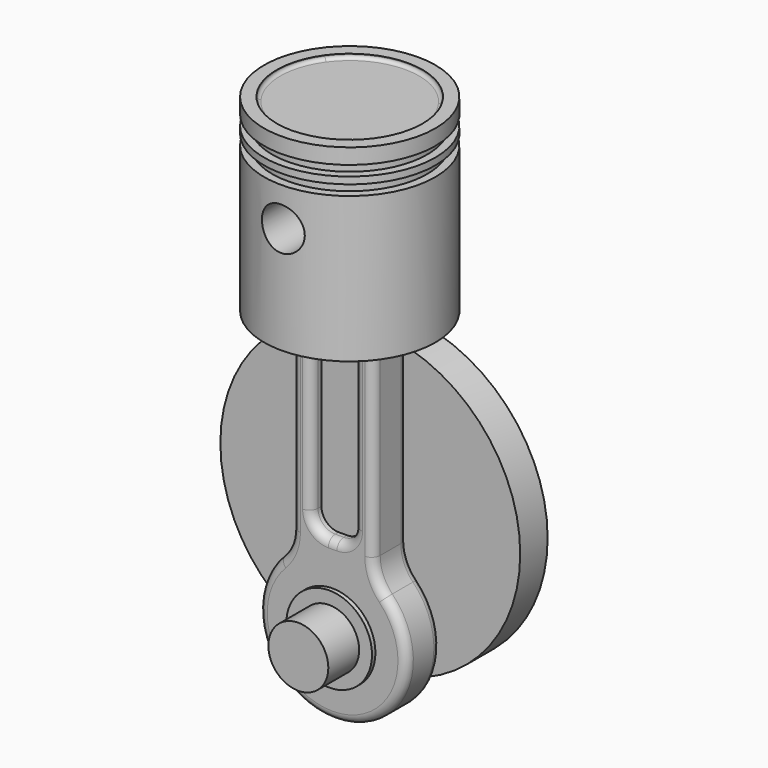
from build123d import *

# Parameters (mm, degrees)
F1_R      = 5
F1_W      = 5
F1_H      = 28
F1_R_2    = 2.5
F4_DEPTH  = 2.5
F5_DEPTH  = 1
F6_R      = 5
F7_R      = 2
F8_R      = 1
F9_START  = -3
F0_R      = 17.5
F0_R_2    = 3.5
F9_DEPTH  = 4
F10_DEPTH = 3
F11_R     = 3.5
F12_DEPTH = 7.5
F3_R      = 10
F13_DEPTH = 22
F14_DEPTH = 15
F15_DEPTH = 3
F0_R_3    = 2.5
F16_DEPTH = 11
F17_DEPTH = 0.5
F0_W      = 0.9503506497
F0_H      = 1.1954009533
F19_R     = 0.4


with BuildPart() as f4:
    # F1 (on Front) → F4 (new body, symmetric)
    with BuildSketch(Plane.XZ):
        with BuildLine():
            Line((-4.7557985918, 33), (-4.7557985918, -4.8015511501))
            ThreePointArc((-4.7557985918, -4.8015511501), (0, -20.6275886602), (4.7557985918, -4.8015511501))
            Line((4.7557985918, -4.8015511501), (4.7557985918, 33))
            ThreePointArc((4.7557985918, 33), (0, 37.7557985918), (-4.7557985918, 33))
        make_face()
        with Locations((0, -12)):
            Circle(F1_R, mode=Mode.SUBTRACT)
        with Locations((0, 12)):
            Rectangle(F1_W, F1_H, mode=Mode.SUBTRACT)
        with Locations((0, 33)):
            Circle(F1_R_2, mode=Mode.SUBTRACT)
    extrude(amount=F4_DEPTH, both=True)

    # F1 (on Front) → F5 (join, symmetric)
    with BuildSketch(Plane.XZ):
        with Locations((0, 12)):
            Rectangle(F1_W, F1_H)
    extrude(amount=F5_DEPTH, both=True)

    # F6
    f6_edges = [f4.edges().sort_by_distance(p)[0] for p in [
        (4.755799, 0, -4.801551),
        (-4.755799, 0, -4.801551),
    ]]
    fillet(f6_edges, radius=F6_R)

    # F7
    f7_edges = [f4.edges().sort_by_distance(p)[0] for p in [
        (2.5, -1.75, -2),
        (-2.5, -1.75, -2),
        (2.5, -1.75, 26),
        (-2.5, -1.75, 26),
        (-2.5, 1.75, 26),
        (2.5, 1.75, 26),
        (-2.5, 1.75, -2),
        (2.5, 1.75, -2),
    ]]
    fillet(f7_edges, radius=F7_R)

    # F8
    f8_edges = [f4.edges().sort_by_distance(p)[0] for p in [
        (4.755799, 2.5, 15.257509),
        (-4.755799, -2.5, 15.257509),
        (-1.914214, 2.5, 25.414214),
        (-2.5, -2.5, 12),
    ]]
    fillet(f8_edges, radius=F8_R)


with BuildPart() as f9:
    # F0 (on Front) → F9 (new body)
    with BuildSketch(Plane.XZ.offset(F9_START)):
        Circle(F0_R)
        with Locations((0, -12)):
            Circle(F0_R_2, mode=Mode.SUBTRACT)
    extrude(amount=-F9_DEPTH)


with BuildPart() as f10:
    # F1 (on Front) → F10 (new body, symmetric)
    with BuildSketch(Plane.XZ):
        with Locations((0, -12)):
            Circle(F1_R)
    extrude(amount=F10_DEPTH, both=True)

    # F11 (on Front) → F12 (join, symmetric)
    with BuildSketch(Plane.XZ):
        with Locations((0, -12)):
            Circle(F11_R)
    extrude(amount=F12_DEPTH, both=True)


with BuildPart() as f13:
    # F3 (on line) → F13 (new body)
    with BuildSketch(Plane.XY.offset(42.5)):
        Circle(F3_R)
        with BuildLine():
            ThreePointArc((6.8738635424, 5), (8.0832493501, 2.6288932927), (8.5, 0))
            ThreePointArc((8.5, 0), (8.0832493501, -2.6288932927), (6.8738635424, -5))
            ThreePointArc((6.8738635424, -5), (0, -8.5), (-6.8738635424, -5))
            ThreePointArc((-6.8738635424, -5), (-8.5, 0), (-6.8738635424, 5))
            ThreePointArc((-6.8738635424, 5), (0, 8.5), (6.8738635424, 5))
        make_face(mode=Mode.SUBTRACT)
    extrude(amount=-F13_DEPTH)

    # F3 (on line) → F14 (join)
    with BuildSketch(Plane.XY.offset(42.5)):
        with BuildLine():
            Line((-6.8738635424, 5), (6.8738635424, 5))
            ThreePointArc((6.8738635424, 5), (0, 8.5), (-6.8738635424, 5))
        make_face()
        with BuildLine():
            ThreePointArc((-6.8738635424, -5), (0, -8.5), (6.8738635424, -5))
            Line((6.8738635424, -5), (-6.8738635424, -5))
        make_face()
    extrude(amount=-F14_DEPTH)

    # F3 (on line) → F15 (join)
    with BuildSketch(Plane.XY.offset(42.5)):
        with BuildLine():
            ThreePointArc((6.8738635424, -5), (8.0832493501, -2.6288932927), (8.5, 0))
            ThreePointArc((8.5, 0), (8.0832493501, 2.6288932927), (6.8738635424, 5))
            Line((6.8738635424, 5), (-6.8738635424, 5))
            ThreePointArc((-6.8738635424, 5), (-8.5, 0), (-6.8738635424, -5))
            Line((-6.8738635424, -5), (6.8738635424, -5))
        make_face()
    extrude(amount=-F15_DEPTH)

    # F0 (on Front) → F16 (cut, symmetric)
    with BuildSketch(Plane.XZ):
        with Locations((0, 33)):
            Circle(F0_R_3)
    extrude(amount=F16_DEPTH, both=True, mode=Mode.SUBTRACT)

    # F3 (on line) → F17 (cut)
    with BuildSketch(Plane.XY.offset(42.5)):
        with BuildLine():
            ThreePointArc((-6.8738635424, -5), (0, -8.5), (6.8738635424, -5))
            Line((6.8738635424, -5), (-6.8738635424, -5))
        make_face()
        with BuildLine():
            ThreePointArc((6.8738635424, -5), (8.0832493501, -2.6288932927), (8.5, 0))
            ThreePointArc((8.5, 0), (8.0832493501, 2.6288932927), (6.8738635424, 5))
            Line((6.8738635424, 5), (-6.8738635424, 5))
            ThreePointArc((-6.8738635424, 5), (-8.5, 0), (-6.8738635424, -5))
            Line((-6.8738635424, -5), (6.8738635424, -5))
        make_face()
        with BuildLine():
            Line((-6.8738635424, 5), (6.8738635424, 5))
            ThreePointArc((6.8738635424, 5), (0, 8.5), (-6.8738635424, 5))
        make_face()
    extrude(amount=-F17_DEPTH, mode=Mode.SUBTRACT)

    # F0 (on Front) → F18 (revolve, cut)
    with BuildSketch(Plane.XZ):
        with Locations((-9.5248246752, 38.0977004766)):
            Rectangle(F0_W, F0_H)
        with Locations((-9.5248246752, 40.0977004766)):
            Rectangle(F0_W, F0_H)
    revolve(axis=Axis((0, 0, 27.1345070526), (0, 0, -1)), mode=Mode.SUBTRACT)

    # F19
    f19_edges = [f13.edges().sort_by_distance(p)[0] for p in [
        (-6.873864, -5, 42),
    ]]
    fillet(f19_edges, radius=F19_R)


solid = Compound([f4.part, f9.part, f10.part, f13.part])
